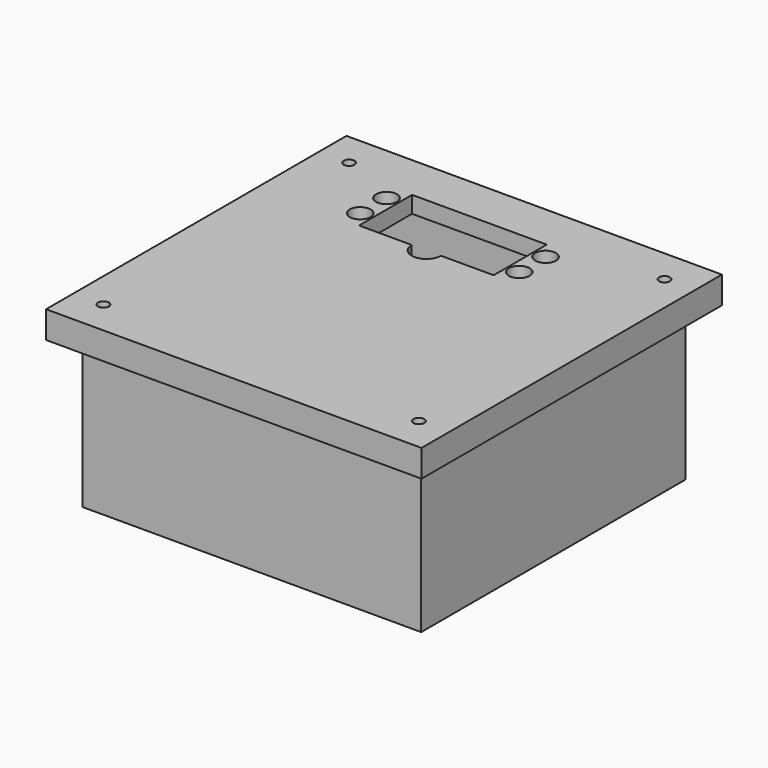
from build123d import *

# Parameters (mm, degrees)
F0_R      = 3.175
F1_DEPTH  = 2.54
F2_W      = 114.3
F2_H      = 114.3
F2_W_2    = 104.14
F2_H_2    = 101.6
F3_DEPTH  = 3.175
F4_W      = 103.124
F4_H      = 100.584
F4_W_2    = 92.964
F4_H_2    = 90.424
F5_DEPTH  = 48.895
F6_W      = 103.124
F6_H      = 100.584
F7_DEPTH  = 8.255
F8_R      = 1.143
F9_DEPTH  = 6.35
F10_R     = 6.35
F11_R     = 1.143
F12_DEPTH = 12.7
F13_R     = 1.651
F14_DEPTH = 53.976


with BuildPart() as f1:
    # F0 (on Top) → F1 (new body, symmetric)
    with BuildSketch(Plane.XY):
        Polygon((57.15, -57.15), (57.15, 57.15), (0, 57.15), (-5.5, 57.15), (-57.15, 57.15), (-57.15, -57.15), align=None)
        with Locations((-29.7062, 28.0797)):
            Circle(F0_R, mode=Mode.SUBTRACT)
        with Locations((-29.7062, 38.0873)):
            Circle(F0_R, mode=Mode.SUBTRACT)
        with BuildLine():
            Line((-25.9978, 22.987), (-25.9978, 43.18))
            Line((-25.9978, 43.18), (14.9978, 43.18))
            Line((14.9978, 43.18), (14.9978, 22.987))
            Line((14.9978, 22.987), (-1.055, 22.987))
            ThreePointArc((-1.055, 22.987), (-5.5, 18.542), (-9.945, 22.987))
            Line((-9.945, 22.987), (-25.9978, 22.987))
        make_face(mode=Mode.SUBTRACT)
        with Locations((18.7062, 28.0797)):
            Circle(F0_R, mode=Mode.SUBTRACT)
        with Locations((18.7062, 38.0873)):
            Circle(F0_R, mode=Mode.SUBTRACT)
    extrude(amount=F1_DEPTH, both=True)

    # F2 (on face) → F3 (join)
    with BuildSketch(Plane(origin=(0, 0, -2.54), x_dir=(1, 0, 0), z_dir=(0, 0, -1))):
        Rectangle(F2_W, F2_H)
        Rectangle(F2_W_2, F2_H_2, mode=Mode.SUBTRACT)
    extrude(amount=F3_DEPTH)

    # F13 (on face) → F14 (cut, through all)
    with BuildSketch(Plane.XY.offset(2.54)):
        with Locations((-48.006, -46.736)):
            Circle(F13_R)
        with Locations((-48.006, 46.736)):
            Circle(F13_R)
        with Locations((48.006, 46.736)):
            Circle(F13_R)
        with Locations((48.006, -46.736)):
            Circle(F13_R)
    extrude(amount=-F14_DEPTH, mode=Mode.SUBTRACT)


with BuildPart() as f5:
    # F4 (on face) → F5 (new body)
    with BuildSketch(Plane(origin=(0, 0, -2.54), x_dir=(1, 0, 0), z_dir=(0, 0, -1))):
        Rectangle(F4_W, F4_H)
        Rectangle(F4_W_2, F4_H_2, mode=Mode.SUBTRACT)
    extrude(amount=F5_DEPTH)

    # F6 (on face) → F7 (join)
    with BuildSketch(Plane(origin=(0, 0, -51.435), x_dir=(1, 0, 0), z_dir=(0, 0, -1))):
        Rectangle(F6_W, F6_H)
    extrude(amount=-F7_DEPTH)

    # F8 (on face) → F9 (cut)
    with BuildSketch(Plane.XY.offset(-43.18)):
        with Locations((-10.033, 8.723)):
            Circle(F8_R)
        with Locations((40.767, -6.517)):
            Circle(F8_R)
        with Locations((40.767, -34.417)):
            Circle(F8_R)
        with Locations((-11.133, -39.117)):
            Circle(F8_R)
    extrude(amount=-F9_DEPTH, mode=Mode.SUBTRACT)

    # F10
    f10_edges = [f5.edges().sort_by_distance(p)[0] for p in [
        (-46.482, 45.212, -22.86),
        (46.482, 45.212, -22.86),
        (46.482, -45.212, -22.86),
        (-46.482, -45.212, -22.86),
    ]]
    fillet(f10_edges, radius=F10_R)

    # F11 (on face) → F12 (cut)
    with BuildSketch(Plane.XY.offset(-2.54)):
        with Locations((-48.006, 46.736)):
            Circle(F11_R)
        with Locations((48.006, 46.736)):
            Circle(F11_R)
        with Locations((48.006, -46.736)):
            Circle(F11_R)
        with Locations((-48.006, -46.736)):
            Circle(F11_R)
    extrude(amount=-F12_DEPTH, mode=Mode.SUBTRACT)


solid = Compound([f1.part, f5.part])
